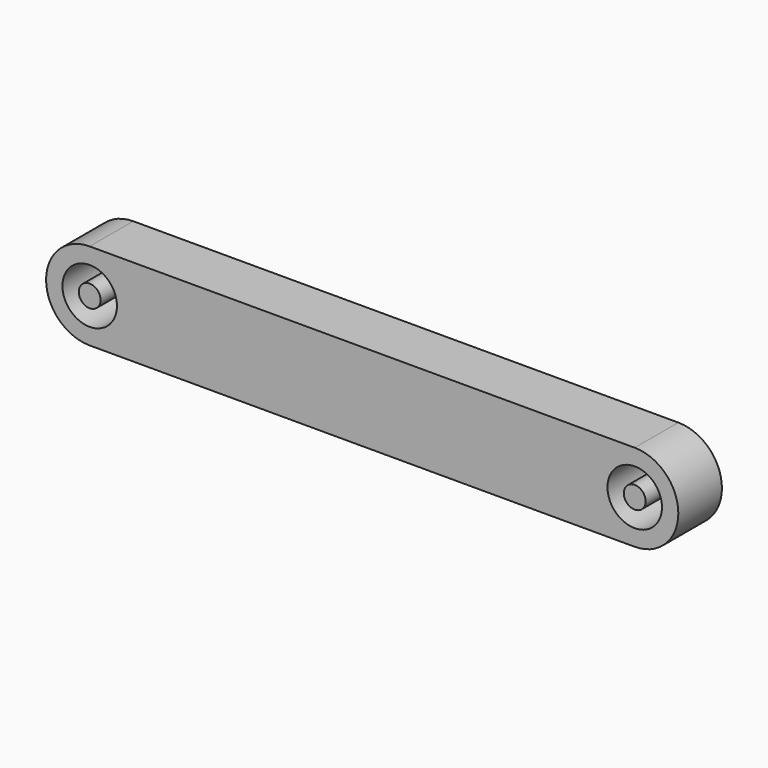
from build123d import *

# Parameters (mm, degrees)
F0_R     = 2.5
F0_R_2   = 1
F1_DEPTH = 5


with BuildPart() as f1:
    # F0 (on Front) → F1 (new body)
    with BuildSketch(Plane.XZ):
        with BuildLine():
            Line((-50, -4), (0, -4))
            ThreePointArc((0, -4), (4, 0), (0, 4))
            Line((0, 4), (-50, 4))
            ThreePointArc((-50, 4), (-54, 0), (-50, -4))
        make_face()
        with Locations((-50, 0)):
            Circle(F0_R, mode=Mode.SUBTRACT)
        Circle(F0_R, mode=Mode.SUBTRACT)
        with Locations((-50, 0)):
            Circle(F0_R_2)
        Circle(F0_R_2)
    extrude(amount=F1_DEPTH)


solid = f1.part
